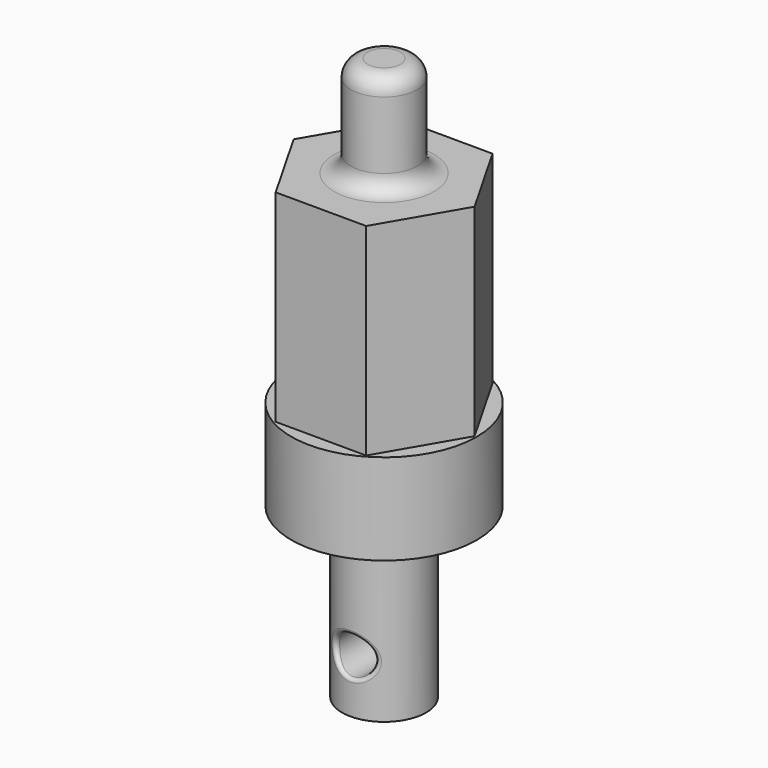
from build123d import *

# Parameters (mm, degrees)
F0_R          = 6.35
F1_DEPTH      = 25.4
F2_R          = 2.921
F3_DEPTH      = 6.351
F3_DEPTH_BACK = 6.351
F4_R          = 0.508
F5_R          = 13.9954
F6_DEPTH      = 13.716
F8_DEPTH      = 30.48
F9_R          = 5.0190510085
F10_DEPTH     = 15.24
F11_R         = 2.54


with BuildPart() as f1:
    # F0 (on Top) → F1 (new body)
    with BuildSketch(Plane.XY):
        Circle(F0_R)
    extrude(amount=F1_DEPTH)

    # F2 (on Front) → F3 (cut, two sides)
    with BuildSketch(Plane.XZ) as f3_sk:
        with Locations((0, 8.001)):
            Circle(F2_R)
    extrude(amount=-F3_DEPTH, mode=Mode.SUBTRACT)
    extrude(f3_sk.sketch, amount=F3_DEPTH_BACK, mode=Mode.SUBTRACT)

    # F4
    f4_edges = [f1.edges().sort_by_distance(p)[0] for p in [
        (-2.921, 5.638285, 8.001),
        (-2.921, -5.638285, 8.001),
    ]]
    fillet(f4_edges, radius=F4_R)


with BuildPart() as f6:
    # F5 (on face) → F6 (new body)
    with BuildSketch(Plane.XY.offset(25.4)):
        Circle(F5_R)
    extrude(amount=F6_DEPTH)

    # F7 (on face) → F8 (join)
    with BuildSketch(Plane.XY.offset(39.116)):
        Polygon((-6.7986963586, 11.8828962851), (-13.6902382328, 0.0536043834), (-6.8915418742, -11.8292919018), (6.7986963586, -11.8828962851), (13.6902382328, -0.0536043834), (6.8915418742, 11.8292919018), align=None)
    extrude(amount=F8_DEPTH)

    # F9 (on face) → F10 (join)
    with BuildSketch(Plane.XY.offset(69.596)):
        Circle(F9_R)
    extrude(amount=F10_DEPTH)

    # F11
    f11_edges = [f6.edges().sort_by_distance(p)[0] for p in [
        (-5.019051, 0, 84.836),
        (-5.019051, 0, 69.596),
    ]]
    fillet(f11_edges, radius=F11_R)


solid = Compound([f1.part, f6.part])
